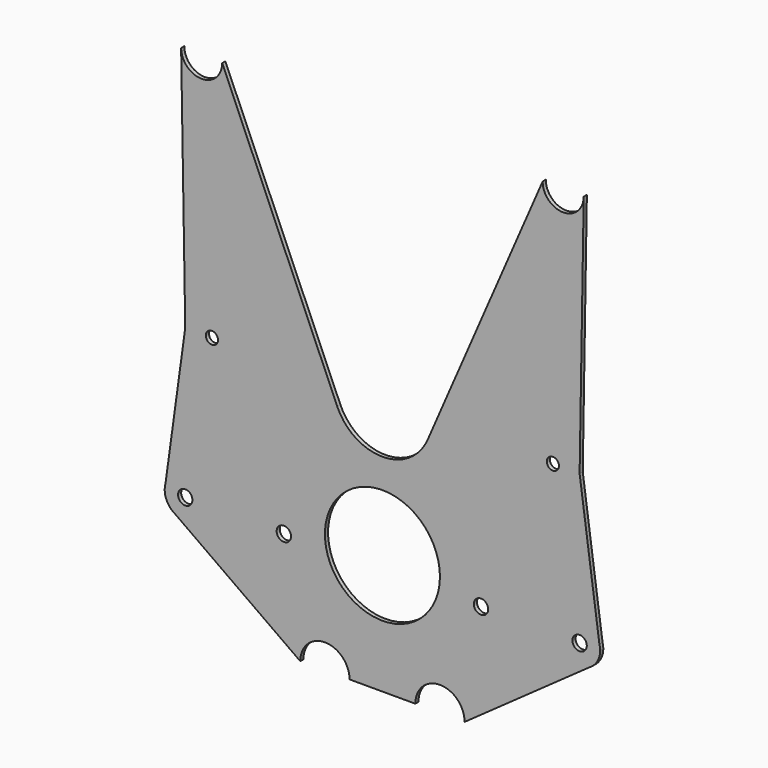
from build123d import *

# Parameters (mm, degrees)
F0_R     = 5.55625
F0_R_2   = 44.45
F0_R_3   = 4.719662
F0_R_4   = 4.704253
F1_DEPTH = 3.048
F2_DEPTH = 3.048
F3_DEPTH = 3.048


with BuildPart() as f1:
    # F0 (on Front) → F1 (new body)
    with BuildSketch(Plane.XZ):
        with BuildLine():
            ThreePointArc((-155.575, 294.705913), (-155.572772, 294.439949), (-155.566088, 294.174059))
            Line((-155.566088, 294.174059), (-155.575, 294.705913))
        make_face()
        with BuildLine():
            Line((155.575, 294.705913), (155.566088, 294.174059))
            ThreePointArc((155.566088, 294.174059), (155.572772, 294.439949), (155.575, 294.705913))
        make_face()
        with BuildLine():
            ThreePointArc((-63.5, -92.644087), (-44.45, -73.594087), (-25.4, -92.644087))
            Line((-25.4, -92.644087), (25.4, -92.644087))
            ThreePointArc((25.4, -92.644087), (44.45, -73.594087), (63.5, -92.644087))
            Line((63.5, -92.644087), (160.537703, -23.724692))
            Line((160.537703, -23.724692), (162.58925, -22.267616))
            ThreePointArc((162.58925, -22.267616), (166.783497, -16.812021), (168.275, -10.094087))
            Line((168.275, -10.094087), (167.684475, -5.804511))
            Line((167.684475, -5.804511), (152.4, 105.221913))
            Line((152.4, 105.221913), (155.566088, 294.174059))
            ThreePointArc((155.566088, 294.174059), (139.434035, 278.833141), (123.825, 294.705913))
            Line((123.825, 294.705913), (34.946903, 90.045485))
            ThreePointArc((34.946903, 90.045485), (0, 67.121913), (-34.946903, 90.045485))
            Line((-34.946903, 90.045485), (-123.825, 294.705913))
            ThreePointArc((-123.825, 294.705913), (-139.434035, 278.833141), (-155.566088, 294.174059))
            Line((-155.566088, 294.174059), (-152.4, 105.221913))
            Line((-152.4, 105.221913), (-167.684475, -5.804511))
            Line((-167.684475, -5.804511), (-168.275, -10.094087))
            ThreePointArc((-168.275, -10.094087), (-166.783497, -16.812021), (-162.58925, -22.267616))
            Line((-162.58925, -22.267616), (-160.537703, -23.724692))
            Line((-160.537703, -23.724692), (-63.5, -92.644087))
        make_face()
        with Locations((-152.4, -10.094087)):
            Circle(F0_R, mode=Mode.SUBTRACT)
        with Locations((-76.2, -10.094087)):
            Circle(F0_R, mode=Mode.SUBTRACT)
        Circle(F0_R_2, mode=Mode.SUBTRACT)
        with Locations((76.2, -10.094087)):
            Circle(F0_R, mode=Mode.SUBTRACT)
        with Locations((152.4, -10.094087)):
            Circle(F0_R, mode=Mode.SUBTRACT)
        with Locations((-131.7498, 105.221913)):
            Circle(F0_R_3, mode=Mode.SUBTRACT)
        with Locations((131.7498, 105.221913)):
            Circle(F0_R_4, mode=Mode.SUBTRACT)
        with BuildLine():
            ThreePointArc((-162.58925, -22.267616), (-161.592392, -23.036867), (-160.537703, -23.724692))
            Line((-160.537703, -23.724692), (-162.58925, -22.267616))
        make_face()
        with BuildLine():
            Line((162.58925, -22.267616), (160.537703, -23.724692))
            ThreePointArc((160.537703, -23.724692), (161.592392, -23.036867), (162.58925, -22.267616))
        make_face()
        with BuildLine():
            ThreePointArc((-167.684475, -5.804511), (-168.126676, -7.929071), (-168.275, -10.094087))
            Line((-168.275, -10.094087), (-167.684475, -5.804511))
        make_face()
        with BuildLine():
            Line((167.684475, -5.804511), (168.275, -10.094087))
            ThreePointArc((168.275, -10.094087), (168.126676, -7.929071), (167.684475, -5.804511))
        make_face()
    extrude(amount=F1_DEPTH)


with BuildPart() as f2:
    # F0 (on Front) → F2 (new body)
    with BuildSketch(Plane.XZ):
        with BuildLine():
            ThreePointArc((-155.575, 294.705913), (-155.572772, 294.439949), (-155.566088, 294.174059))
            Line((-155.566088, 294.174059), (-155.575, 294.705913))
        make_face()
        with BuildLine():
            Line((155.575, 294.705913), (155.566088, 294.174059))
            ThreePointArc((155.566088, 294.174059), (155.572772, 294.439949), (155.575, 294.705913))
        make_face()
        with BuildLine():
            ThreePointArc((-63.5, -92.644087), (-44.45, -73.594087), (-25.4, -92.644087))
            Line((-25.4, -92.644087), (25.4, -92.644087))
            ThreePointArc((25.4, -92.644087), (44.45, -73.594087), (63.5, -92.644087))
            Line((63.5, -92.644087), (160.537703, -23.724692))
            Line((160.537703, -23.724692), (162.58925, -22.267616))
            ThreePointArc((162.58925, -22.267616), (166.783497, -16.812021), (168.275, -10.094087))
            Line((168.275, -10.094087), (167.684475, -5.804511))
            Line((167.684475, -5.804511), (152.4, 105.221913))
            Line((152.4, 105.221913), (155.566088, 294.174059))
            ThreePointArc((155.566088, 294.174059), (139.434035, 278.833141), (123.825, 294.705913))
            Line((123.825, 294.705913), (34.946903, 90.045485))
            ThreePointArc((34.946903, 90.045485), (0, 67.121913), (-34.946903, 90.045485))
            Line((-34.946903, 90.045485), (-123.825, 294.705913))
            ThreePointArc((-123.825, 294.705913), (-139.434035, 278.833141), (-155.566088, 294.174059))
            Line((-155.566088, 294.174059), (-152.4, 105.221913))
            Line((-152.4, 105.221913), (-167.684475, -5.804511))
            Line((-167.684475, -5.804511), (-168.275, -10.094087))
            ThreePointArc((-168.275, -10.094087), (-166.783497, -16.812021), (-162.58925, -22.267616))
            Line((-162.58925, -22.267616), (-160.537703, -23.724692))
            Line((-160.537703, -23.724692), (-63.5, -92.644087))
        make_face()
        with Locations((-152.4, -10.094087)):
            Circle(F0_R, mode=Mode.SUBTRACT)
        with Locations((-76.2, -10.094087)):
            Circle(F0_R, mode=Mode.SUBTRACT)
        Circle(F0_R_2, mode=Mode.SUBTRACT)
        with Locations((76.2, -10.094087)):
            Circle(F0_R, mode=Mode.SUBTRACT)
        with Locations((152.4, -10.094087)):
            Circle(F0_R, mode=Mode.SUBTRACT)
        with Locations((-131.7498, 105.221913)):
            Circle(F0_R_3, mode=Mode.SUBTRACT)
        with Locations((131.7498, 105.221913)):
            Circle(F0_R_4, mode=Mode.SUBTRACT)
        with BuildLine():
            ThreePointArc((-162.58925, -22.267616), (-161.592392, -23.036867), (-160.537703, -23.724692))
            Line((-160.537703, -23.724692), (-162.58925, -22.267616))
        make_face()
        with BuildLine():
            Line((162.58925, -22.267616), (160.537703, -23.724692))
            ThreePointArc((160.537703, -23.724692), (161.592392, -23.036867), (162.58925, -22.267616))
        make_face()
        with BuildLine():
            ThreePointArc((-167.684475, -5.804511), (-168.126676, -7.929071), (-168.275, -10.094087))
            Line((-168.275, -10.094087), (-167.684475, -5.804511))
        make_face()
        with BuildLine():
            Line((167.684475, -5.804511), (168.275, -10.094087))
            ThreePointArc((168.275, -10.094087), (168.126676, -7.929071), (167.684475, -5.804511))
        make_face()
    extrude(amount=F2_DEPTH)


with BuildPart() as f3:
    # F0 (on Front) → F3 (new body)
    with BuildSketch(Plane.XZ):
        with BuildLine():
            ThreePointArc((-155.575, 294.705913), (-155.572772, 294.439949), (-155.566088, 294.174059))
            Line((-155.566088, 294.174059), (-155.575, 294.705913))
        make_face()
        with BuildLine():
            Line((155.575, 294.705913), (155.566088, 294.174059))
            ThreePointArc((155.566088, 294.174059), (155.572772, 294.439949), (155.575, 294.705913))
        make_face()
        with BuildLine():
            ThreePointArc((-63.5, -92.644087), (-44.45, -73.594087), (-25.4, -92.644087))
            Line((-25.4, -92.644087), (25.4, -92.644087))
            ThreePointArc((25.4, -92.644087), (44.45, -73.594087), (63.5, -92.644087))
            Line((63.5, -92.644087), (160.537703, -23.724692))
            Line((160.537703, -23.724692), (162.58925, -22.267616))
            ThreePointArc((162.58925, -22.267616), (166.783497, -16.812021), (168.275, -10.094087))
            Line((168.275, -10.094087), (167.684475, -5.804511))
            Line((167.684475, -5.804511), (152.4, 105.221913))
            Line((152.4, 105.221913), (155.566088, 294.174059))
            ThreePointArc((155.566088, 294.174059), (139.434035, 278.833141), (123.825, 294.705913))
            Line((123.825, 294.705913), (34.946903, 90.045485))
            ThreePointArc((34.946903, 90.045485), (0, 67.121913), (-34.946903, 90.045485))
            Line((-34.946903, 90.045485), (-123.825, 294.705913))
            ThreePointArc((-123.825, 294.705913), (-139.434035, 278.833141), (-155.566088, 294.174059))
            Line((-155.566088, 294.174059), (-152.4, 105.221913))
            Line((-152.4, 105.221913), (-167.684475, -5.804511))
            Line((-167.684475, -5.804511), (-168.275, -10.094087))
            ThreePointArc((-168.275, -10.094087), (-166.783497, -16.812021), (-162.58925, -22.267616))
            Line((-162.58925, -22.267616), (-160.537703, -23.724692))
            Line((-160.537703, -23.724692), (-63.5, -92.644087))
        make_face()
        with Locations((-152.4, -10.094087)):
            Circle(F0_R, mode=Mode.SUBTRACT)
        with Locations((-76.2, -10.094087)):
            Circle(F0_R, mode=Mode.SUBTRACT)
        Circle(F0_R_2, mode=Mode.SUBTRACT)
        with Locations((76.2, -10.094087)):
            Circle(F0_R, mode=Mode.SUBTRACT)
        with Locations((152.4, -10.094087)):
            Circle(F0_R, mode=Mode.SUBTRACT)
        with Locations((-131.7498, 105.221913)):
            Circle(F0_R_3, mode=Mode.SUBTRACT)
        with Locations((131.7498, 105.221913)):
            Circle(F0_R_4, mode=Mode.SUBTRACT)
        with BuildLine():
            ThreePointArc((-162.58925, -22.267616), (-161.592392, -23.036867), (-160.537703, -23.724692))
            Line((-160.537703, -23.724692), (-162.58925, -22.267616))
        make_face()
        with BuildLine():
            Line((162.58925, -22.267616), (160.537703, -23.724692))
            ThreePointArc((160.537703, -23.724692), (161.592392, -23.036867), (162.58925, -22.267616))
        make_face()
        with BuildLine():
            ThreePointArc((-167.684475, -5.804511), (-168.126676, -7.929071), (-168.275, -10.094087))
            Line((-168.275, -10.094087), (-167.684475, -5.804511))
        make_face()
        with BuildLine():
            Line((167.684475, -5.804511), (168.275, -10.094087))
            ThreePointArc((168.275, -10.094087), (168.126676, -7.929071), (167.684475, -5.804511))
        make_face()
    extrude(amount=F3_DEPTH)


solid = Compound([f1.part, f2.part, f3.part])
